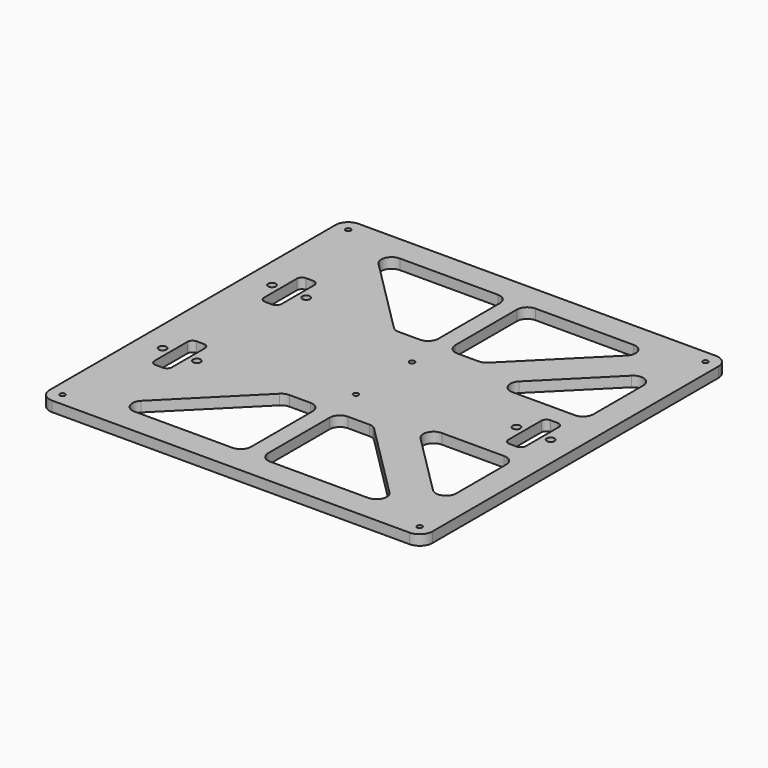
from build123d import *

# Parameters (mm, degrees)
F0_R     = 1.5
F0_R_2   = 2.25
F1_DEPTH = 6


with BuildPart() as f1:
    # F0 (on Top) → F1 (new body)
    with BuildSketch(Plane.XY):
        with BuildLine():
            Line((104.5, 112), (-104.5, 112))
            ThreePointArc((-104.5, 112), (-109.803301, 109.803301), (-112, 104.5))
            Line((-112, 104.5), (-112, -104.5))
            ThreePointArc((-112, -104.5), (-109.803301, -109.803301), (-104.5, -112))
            Line((-104.5, -112), (104.5, -112))
            ThreePointArc((104.5, -112), (109.803301, -109.803301), (112, -104.5))
            Line((112, -104.5), (112, 104.5))
            ThreePointArc((112, 104.5), (109.803301, 109.803301), (104.5, 112))
        make_face()
        with Locations((-104.5, -104.5)):
            Circle(F0_R, mode=Mode.SUBTRACT)
        with BuildLine():
            Line((-72.615224, -86.757359), (-27.615224, -41.757359))
            ThreePointArc((-27.615224, -41.757359), (-25.668684, -40.456723), (-23.372583, -40))
            Line((-23.372583, -40), (-11, -40))
            ThreePointArc((-11, -40), (-6.757359, -41.757359), (-5, -46))
            Line((-5, -46), (-5, -91))
            ThreePointArc((-5, -91), (-6.757359, -95.242641), (-11, -97))
            Line((-11, -97), (-68.372583, -97))
            ThreePointArc((-68.372583, -97), (-73.91586, -93.296101), (-72.615224, -86.757359))
        make_face(mode=Mode.SUBTRACT)
        with Locations((-97.5, -40)):
            Circle(F0_R_2, mode=Mode.SUBTRACT)
        with BuildLine():
            Line((-89.6, -25), (-85.4, -25))
            ThreePointArc((-85.4, -25), (-83.27868, -25.87868), (-82.4, -28))
            Line((-82.4, -28), (-82.4, -52))
            ThreePointArc((-82.4, -52), (-83.27868, -54.12132), (-85.4, -55))
            Line((-85.4, -55), (-89.6, -55))
            ThreePointArc((-89.6, -55), (-91.72132, -54.12132), (-92.6, -52))
            Line((-92.6, -52), (-92.6, -28))
            ThreePointArc((-92.6, -28), (-91.72132, -25.87868), (-89.6, -25))
        make_face(mode=Mode.SUBTRACT)
        with Locations((-77.5, -40)):
            Circle(F0_R_2, mode=Mode.SUBTRACT)
        with BuildLine():
            ThreePointArc((23.372583, -40), (25.668684, -40.456723), (27.615224, -41.757359))
            Line((27.615224, -41.757359), (72.615224, -86.757359))
            ThreePointArc((72.615224, -86.757359), (73.91586, -93.296101), (68.372583, -97))
            Line((68.372583, -97), (11, -97))
            ThreePointArc((11, -97), (6.757359, -95.242641), (5, -91))
            Line((5, -91), (5, -46))
            ThreePointArc((5, -46), (6.757359, -41.757359), (11, -40))
            Line((11, -40), (23.372583, -40))
        make_face(mode=Mode.SUBTRACT)
        with Locations((104.5, -104.5)):
            Circle(F0_R, mode=Mode.SUBTRACT)
        with Locations((0, -20.5)):
            Circle(F0_R, mode=Mode.SUBTRACT)
        with BuildLine():
            ThreePointArc((97, -68.372583), (93.296101, -73.91586), (86.757359, -72.615224))
            Line((86.757359, -72.615224), (50.242641, -36.100505))
            ThreePointArc((50.242641, -36.100505), (48.942004, -29.561764), (54.485281, -25.857864))
            Line((54.485281, -25.857864), (91, -25.857864))
            ThreePointArc((91, -25.857864), (95.242641, -27.615224), (97, -31.857864))
            Line((97, -31.857864), (97, -68.372583))
        make_face(mode=Mode.SUBTRACT)
        with Locations((-97.5, 40)):
            Circle(F0_R_2, mode=Mode.SUBTRACT)
        with BuildLine():
            ThreePointArc((-82.4, 28), (-83.27868, 25.87868), (-85.4, 25))
            Line((-85.4, 25), (-89.6, 25))
            ThreePointArc((-89.6, 25), (-91.72132, 25.87868), (-92.6, 28))
            Line((-92.6, 28), (-92.6, 52))
            ThreePointArc((-92.6, 52), (-91.72132, 54.12132), (-89.6, 55))
            Line((-89.6, 55), (-85.4, 55))
            ThreePointArc((-85.4, 55), (-83.27868, 54.12132), (-82.4, 52))
            Line((-82.4, 52), (-82.4, 28))
        make_face(mode=Mode.SUBTRACT)
        with Locations((-77.5, 40)):
            Circle(F0_R_2, mode=Mode.SUBTRACT)
        with Locations((-104.5, 104.5)):
            Circle(F0_R, mode=Mode.SUBTRACT)
        with BuildLine():
            ThreePointArc((-11, 97), (-6.757359, 95.242641), (-5, 91))
            Line((-5, 91), (-5, 46))
            ThreePointArc((-5, 46), (-6.757359, 41.757359), (-11, 40))
            Line((-11, 40), (-23.372583, 40))
            ThreePointArc((-23.372583, 40), (-25.668684, 40.456723), (-27.615224, 41.757359))
            Line((-27.615224, 41.757359), (-72.615224, 86.757359))
            ThreePointArc((-72.615224, 86.757359), (-73.91586, 93.296101), (-68.372583, 97))
            Line((-68.372583, 97), (-11, 97))
        make_face(mode=Mode.SUBTRACT)
        with Locations((0, 20.5)):
            Circle(F0_R, mode=Mode.SUBTRACT)
        with Locations((77.5, 0)):
            Circle(F0_R_2, mode=Mode.SUBTRACT)
        with BuildLine():
            Line((85.4, 15), (89.6, 15))
            ThreePointArc((89.6, 15), (91.72132, 14.12132), (92.6, 12))
            Line((92.6, 12), (92.6, -12))
            ThreePointArc((92.6, -12), (91.72132, -14.12132), (89.6, -15))
            Line((89.6, -15), (85.4, -15))
            ThreePointArc((85.4, -15), (83.27868, -14.12132), (82.4, -12))
            Line((82.4, -12), (82.4, 12))
            ThreePointArc((82.4, 12), (83.27868, 14.12132), (85.4, 15))
        make_face(mode=Mode.SUBTRACT)
        with Locations((97.5, 0)):
            Circle(F0_R_2, mode=Mode.SUBTRACT)
        with BuildLine():
            ThreePointArc((54.485281, 25.857864), (48.942004, 29.561764), (50.242641, 36.100505))
            Line((50.242641, 36.100505), (86.757359, 72.615224))
            ThreePointArc((86.757359, 72.615224), (93.296101, 73.91586), (97, 68.372583))
            Line((97, 68.372583), (97, 31.857864))
            ThreePointArc((97, 31.857864), (95.242641, 27.615224), (91, 25.857864))
            Line((91, 25.857864), (54.485281, 25.857864))
        make_face(mode=Mode.SUBTRACT)
        with BuildLine():
            Line((5, 46), (5, 91))
            ThreePointArc((5, 91), (6.757359, 95.242641), (11, 97))
            Line((11, 97), (68.372583, 97))
            ThreePointArc((68.372583, 97), (73.91586, 93.296101), (72.615224, 86.757359))
            Line((72.615224, 86.757359), (27.615224, 41.757359))
            ThreePointArc((27.615224, 41.757359), (25.668684, 40.456723), (23.372583, 40))
            Line((23.372583, 40), (11, 40))
            ThreePointArc((11, 40), (6.757359, 41.757359), (5, 46))
        make_face(mode=Mode.SUBTRACT)
        with Locations((104.5, 104.5)):
            Circle(F0_R, mode=Mode.SUBTRACT)
    extrude(amount=F1_DEPTH)


solid = f1.part
